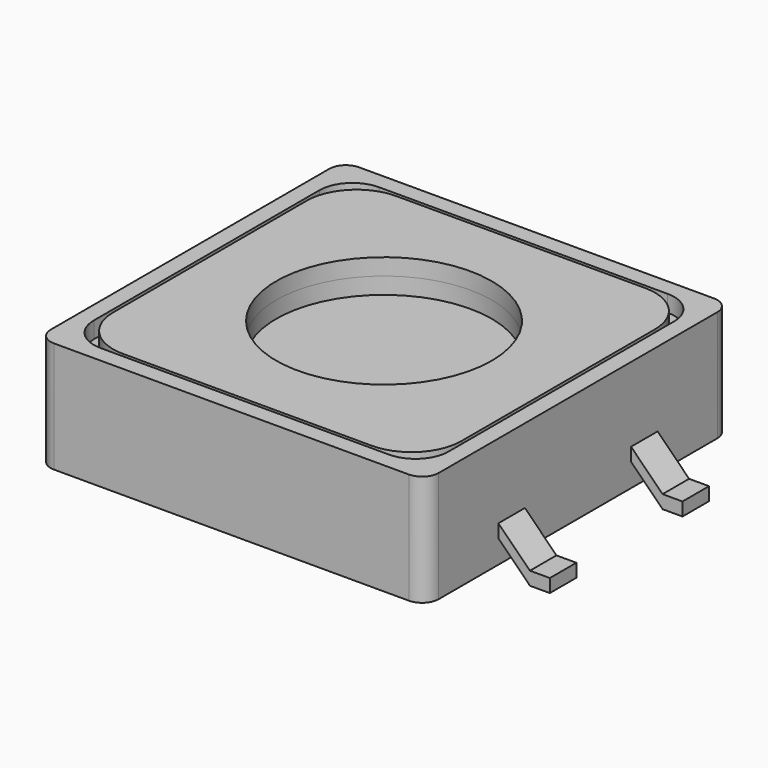
from build123d import *

# Parameters (mm, degrees)
SKETCH_W                     = 11.7
SKETCH_H                     = 11.5
PAD_DEPTH                    = 3.6
PAD001_DEPTH                 = 0.5
PAD001_LINEARPATTERN_2_DEPTH = 0.5
SKETCH002_W                  = 4
SKETCH002_H                  = 0.25
POCKET_DEPTH                 = 11.501
SKETCH003_W                  = 4
SKETCH003_H                  = 0.25
POCKET001_DEPTH              = 11.7
SKETCH005_W                  = 0.5
SKETCH005_H                  = 0.25
POCKET002_DEPTH              = 49.671669
SKETCH006_W                  = 0.5
SKETCH006_H                  = 0.25
POCKET003_DEPTH              = 51.421669
FILLET_R                     = 0.5
SKETCH007_R                  = 3.25
POCKET004_DEPTH              = 1
SKETCH008_W                  = 10.7
SKETCH008_H                  = 10.5
POCKET005_DEPTH              = 0.5
FILLET001_R                  = 1
SKETCH009_R                  = 3.25
PAD002_DEPTH                 = 0.5


with BuildPart() as part:
    # Sketch → Pad (new body)
    with BuildSketch(Plane.XY):
        Rectangle(SKETCH_W, SKETCH_H)
    extrude(amount=PAD_DEPTH)

    # Sketch001 (on DatumPlane) → Pad001 (join, symmetric)
    with BuildSketch(Plane.XZ.offset(2.5)):
        Polygon((-7.4, 0), (-6.8, 0), (-5.85, 0.95), (-5.85, 1.35), (-6.8, 0.4), (-7.4, 0.4), align=None)
    pad001 = extrude(amount=PAD001_DEPTH, both=True)

    # Sketch001 LinearPattern 2 → Pad001 LinearPattern 2 (add, symmetric)
    with BuildSketch(Plane.XZ.offset(-2.5)):
        Polygon((-7.4, 0), (-6.8, 0), (-5.85, 0.95), (-5.85, 1.35), (-6.8, 0.4), (-7.4, 0.4), align=None)
    pad001_linearpattern_2 = extrude(amount=PAD001_LINEARPATTERN_2_DEPTH, both=True)

    # Mirrored: Pad001, Pad001 LinearPattern 2 across Sketch001 V_Axis
    add(pad001.mirror(Plane(origin=(0, -2.5, 0), x_dir=(0, -1, 0), z_dir=(1, 0, 0))))
    add(pad001_linearpattern_2.mirror(Plane(origin=(0, -2.5, 0), x_dir=(0, -1, 0), z_dir=(1, 0, 0))))

    # Sketch002 (on Face6 of MultiTransform) → Pocket (cut, through all)
    with BuildSketch(Plane.XZ.offset(5.75)):
        with Locations((0, 0.125)):
            Rectangle(SKETCH002_W, SKETCH002_H)
    extrude(amount=-POCKET_DEPTH, mode=Mode.SUBTRACT)

    # Sketch003 (on Face7 of Pocket) → Pocket001 (cut)
    with BuildSketch(Plane.YZ.offset(5.85)):
        with Locations((0, 0.125)):
            Rectangle(SKETCH003_W, SKETCH003_H)
    extrude(amount=-POCKET001_DEPTH, mode=Mode.SUBTRACT)

    # Sketch005 (on Face11 of Pocket001) → Pocket002 (cut, through all)
    with BuildSketch(Plane.XZ.offset(5.75)):
        with Locations((5.6, 0.125)):
            Rectangle(SKETCH005_W, SKETCH005_H)
    pocket002 = extrude(amount=-POCKET002_DEPTH, mode=Mode.SUBTRACT)

    # Mirrored001: Pocket002 across Sketch005 V_Axis
    add(pocket002.mirror(Plane(origin=(0, -5.75, 0), x_dir=(0, -1, 0), z_dir=(1, 0, 0))), mode=Mode.SUBTRACT)

    # Sketch006 (on Face11 of Mirrored001) → Pocket003 (cut, through all)
    with BuildSketch(Plane.YZ.offset(5.85)):
        with Locations((-5.5, 0.125)):
            Rectangle(SKETCH006_W, SKETCH006_H)
    pocket003 = extrude(amount=-POCKET003_DEPTH, mode=Mode.SUBTRACT)

    # Mirrored002: Pocket003 across Sketch006 V_Axis
    add(pocket003.mirror(Plane(origin=(5.85, 0, 0), x_dir=(1, 0, 0), z_dir=(0, 1, 0))), mode=Mode.SUBTRACT)

    # Fillet
    fillet_edges = [part.edges().sort_by_distance(p)[0] for p in [
        (5.85, -5.75, 1.925),
        (5.85, 5.75, 1.925),
        (-5.85, -5.75, 1.925),
        (-5.85, 5.75, 1.925),
    ]]
    fillet(fillet_edges, radius=FILLET_R)

    # Sketch007 (on Face5 of Fillet) → Pocket004 (cut)
    with BuildSketch(Plane.XY.offset(3.6)):
        Circle(SKETCH007_R)
    extrude(amount=-POCKET004_DEPTH, mode=Mode.SUBTRACT)

    # Sketch008 (on Face5 of Pocket004) → Pocket005 (cut)
    with BuildSketch(Plane.XY.offset(3.6)):
        Rectangle(SKETCH008_W, SKETCH008_H)
    extrude(amount=-POCKET005_DEPTH, mode=Mode.SUBTRACT)

    # Fillet001
    fillet001_edges = [part.edges().sort_by_distance(p)[0] for p in [
        (-5.35, 5.25, 3.35),
        (5.35, 5.25, 3.35),
        (5.35, -5.25, 3.35),
        (-5.35, -5.25, 3.35),
    ]]
    fillet(fillet001_edges, radius=FILLET001_R)

    # Sketch009 (on Face18 of Fillet001) → Pad002 (join)
    with BuildSketch(Plane.XY.offset(3.1)):
        with BuildLine():
            Line((-3.75, 5.15), (3.75, 5.15))
            ThreePointArc((5.25, 3.65), (4.81066, 4.71066), (3.75, 5.15))
            Line((5.25, 3.65), (5.25, -3.65))
            ThreePointArc((3.75, -5.15), (4.81066, -4.71066), (5.25, -3.65))
            Line((3.75, -5.15), (-3.75, -5.15))
            ThreePointArc((-5.25, -3.65), (-4.81066, -4.71066), (-3.75, -5.15))
            Line((-5.25, -3.65), (-5.25, 3.65))
            ThreePointArc((-3.75, 5.15), (-4.81066, 4.71066), (-5.25, 3.65))
        make_face()
        Circle(SKETCH009_R, mode=Mode.SUBTRACT)
    extrude(amount=PAD002_DEPTH)


solid = part.part
